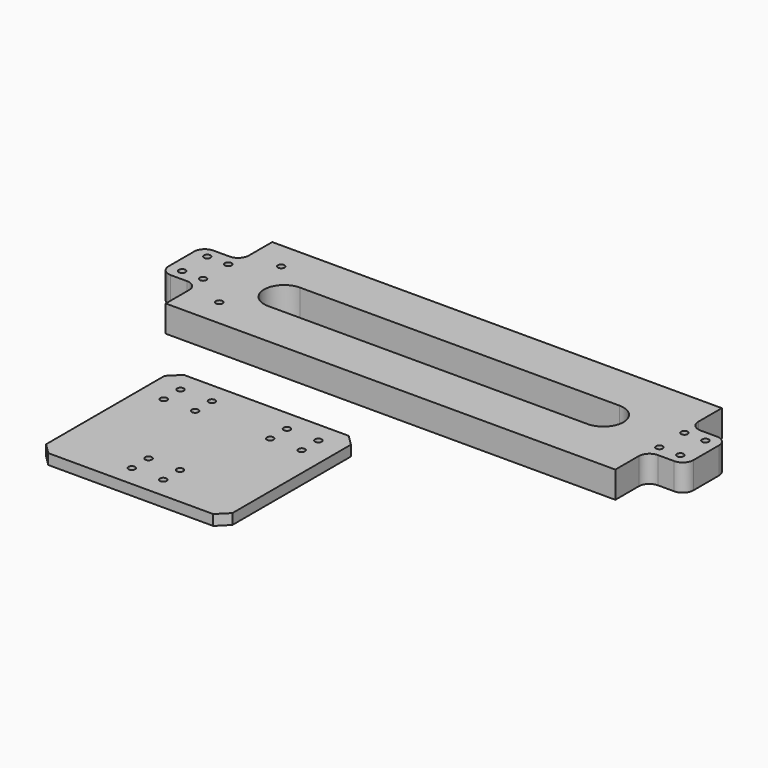
from build123d import *

# Parameters (mm, degrees)
F0_R     = 1.5875
F1_DEPTH = 12.7
F2_R     = 5.08
F3_W     = 88.9
F3_H     = 80.822487
F3_R     = 1.5875
F4_DEPTH = 5
F5_SIZE  = 5.08


with BuildPart() as f1:
    # F0 (on Top) → F1 (new body)
    with BuildSketch(Plane.XY):
        Polygon((-38.435368, 53.998777), (-56.372868, 53.998777), (-56.372868, 28.598777), (-38.435368, 28.598777), (-38.435368, 9.548777), (176.075232, 9.548777), (176.075232, 28.598777), (194.012732, 28.598777), (194.012732, 53.998777), (176.075232, 53.998777), (176.075232, 73.048777), (-38.435368, 73.048777), align=None)
        with Locations((-23.538303, 22.798777)):
            Circle(F0_R, mode=Mode.SUBTRACT)
        with Locations((-50.022868, 33.798777)):
            Circle(F0_R, mode=Mode.SUBTRACT)
        with Locations((-40.022868, 33.798777)):
            Circle(F0_R, mode=Mode.SUBTRACT)
        with Locations((177.662732, 33.798777)):
            Circle(F0_R, mode=Mode.SUBTRACT)
        with Locations((187.662732, 33.798777)):
            Circle(F0_R, mode=Mode.SUBTRACT)
        with Locations((-50.022868, 48.798777)):
            Circle(F0_R, mode=Mode.SUBTRACT)
        with Locations((-40.022868, 48.798777)):
            Circle(F0_R, mode=Mode.SUBTRACT)
        with Locations((-23.538303, 59.798777)):
            Circle(F0_R, mode=Mode.SUBTRACT)
        with BuildLine():
            Line((145.019932, 31.773777), (-7.380068, 31.773777))
            ThreePointArc((-7.380068, 31.773777), (-16.905068, 41.298777), (-7.380068, 50.823777))
            Line((-7.380068, 50.823777), (145.019932, 50.823777))
            ThreePointArc((145.019932, 50.823777), (154.544932, 41.298777), (145.019932, 31.773777))
        make_face(mode=Mode.SUBTRACT)
        with Locations((177.662732, 48.798777)):
            Circle(F0_R, mode=Mode.SUBTRACT)
        with Locations((187.662732, 48.798777)):
            Circle(F0_R, mode=Mode.SUBTRACT)
    extrude(amount=F1_DEPTH)

    # F2
    f2_edges = [f1.edges().sort_by_distance(p)[0] for p in [
        (-38.435368, 53.998777, 6.35),
        (-38.435368, 28.598777, 6.35),
        (176.075232, 28.598777, 6.35),
        (194.012732, 28.598777, 6.35),
        (194.012732, 53.998777, 6.35),
        (176.075232, 53.998777, 6.35),
        (-56.372868, 28.598777, 6.35),
        (-56.372868, 53.998777, 6.35),
    ]]
    fillet(f2_edges, radius=F2_R)


with BuildPart() as f4:
    # F3 (on Top) → F4 (new body)
    with BuildSketch(Plane.XY):
        with Locations((32.9, -60.093847)):
            Rectangle(F3_W, F3_H)
        with Locations((25.4, -90.493848)):
            Circle(F3_R, mode=Mode.SUBTRACT)
        with Locations((25.4, -80.493848)):
            Circle(F3_R, mode=Mode.SUBTRACT)
        with Locations((40.4, -90.493848)):
            Circle(F3_R, mode=Mode.SUBTRACT)
        with Locations((40.4, -80.493848)):
            Circle(F3_R, mode=Mode.SUBTRACT)
        with Locations((0, -39.693848)):
            Circle(F3_R, mode=Mode.SUBTRACT)
        with Locations((0, -29.693848)):
            Circle(F3_R, mode=Mode.SUBTRACT)
        with Locations((15, -39.693848)):
            Circle(F3_R, mode=Mode.SUBTRACT)
        with Locations((15, -29.693848)):
            Circle(F3_R, mode=Mode.SUBTRACT)
        with Locations((50.8, -39.693848)):
            Circle(F3_R, mode=Mode.SUBTRACT)
        with Locations((50.8, -29.693848)):
            Circle(F3_R, mode=Mode.SUBTRACT)
        with Locations((65.8, -39.693848)):
            Circle(F3_R, mode=Mode.SUBTRACT)
        with Locations((65.8, -29.693848)):
            Circle(F3_R, mode=Mode.SUBTRACT)
    extrude(amount=F4_DEPTH)

    # F5
    f5_edges = [f4.edges().sort_by_distance(p)[0] for p in [
        (-11.55, -100.505091, 2.5),
        (77.35, -100.505091, 2.5),
        (-11.55, -19.682604, 2.5),
        (77.35, -19.682604, 2.5),
    ]]
    chamfer(f5_edges, length=F5_SIZE)


solid = Compound([f1.part, f4.part])
